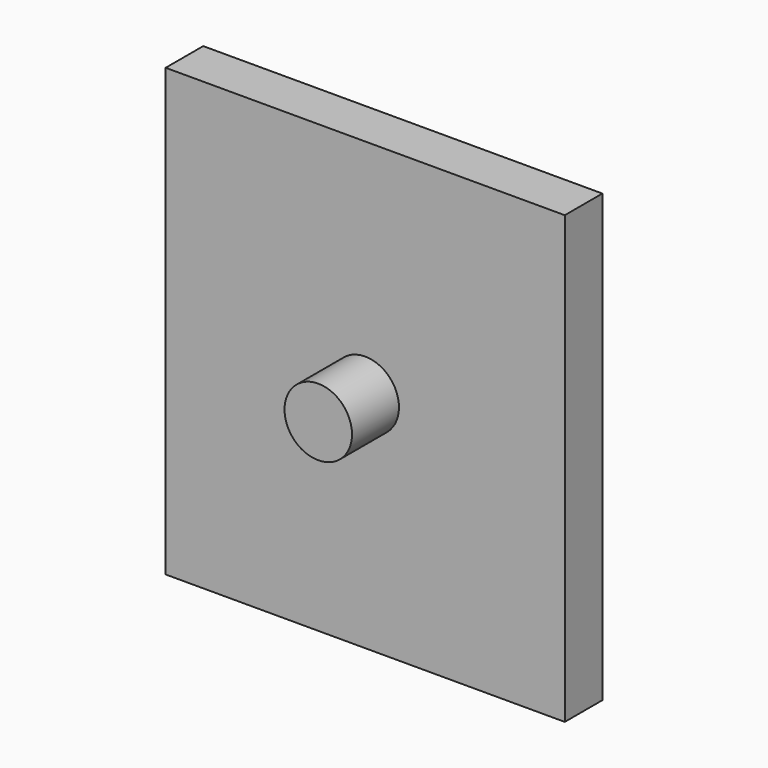
from build123d import *

# Parameters (mm, degrees)
F0_W     = 34
F0_H     = 38
F0_W_2   = 30
F0_H_2   = 34
F1_DEPTH = 2
F2_R     = 2.875
F3_DEPTH = 7
F4_DEPTH = 2


with BuildPart() as f1:
    # F0 (on Front) → F1 (new body)
    with BuildSketch(Plane.XZ):
        Rectangle(F0_W, F0_H)
        Rectangle(F0_W_2, F0_H_2, mode=Mode.SUBTRACT)
        Rectangle(F0_W_2, F0_H_2)
    extrude(amount=F1_DEPTH)

    # F2 (on Front) → F3 (join)
    with BuildSketch(Plane.XZ):
        Circle(F2_R)
    extrude(amount=F3_DEPTH)

    # F0 (on Front) → F4 (join)
    with BuildSketch(Plane.XZ):
        Rectangle(F0_W, F0_H)
        Rectangle(F0_W_2, F0_H_2, mode=Mode.SUBTRACT)
    extrude(amount=-F4_DEPTH)


solid = f1.part
